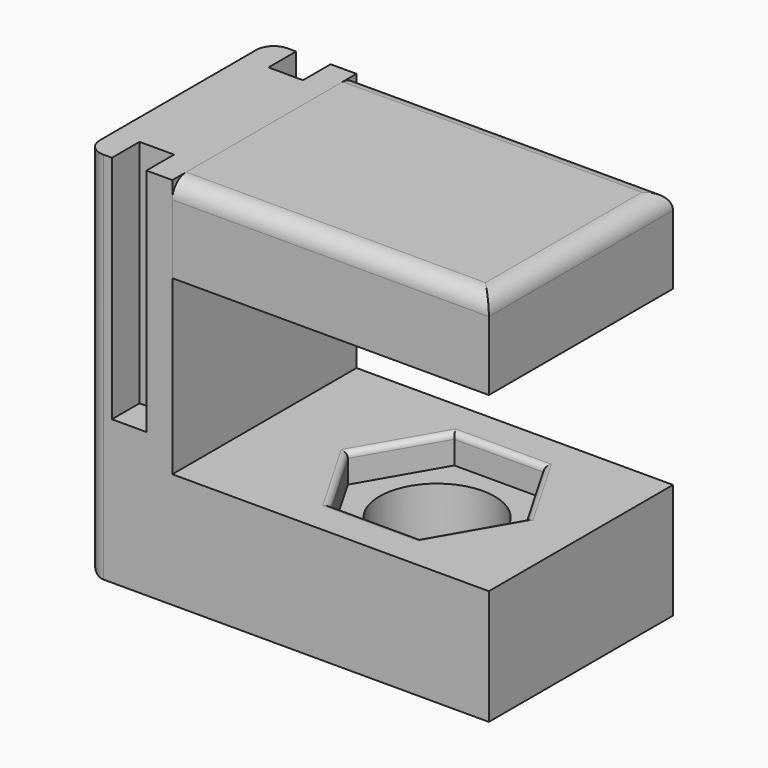
from build123d import *

# Parameters (mm, degrees)
PAD_DEPTH       = 40
POCKET_DEPTH    = 5
FILLET001_R     = 1
SKETCH005_R     = 10
POCKET001_DEPTH = 20
FILLET002_R     = 3
SKETCH006_W     = 6
SKETCH006_H     = 10
POCKET002_DEPTH = 45
SKETCH003_W     = 40
SKETCH003_H     = 15
PAD002_DEPTH    = 55
FILLET_R        = 3


with BuildPart() as body:
    # Sketch → Pad (new body)
    with BuildSketch(Plane.XZ):
        Polygon((0, 0), (70, 0), (70, 20), (15, 20), (15, 50), (15, 50), (15, 44.99994), (15, 65), (0, 65), align=None)
    extrude(amount=PAD_DEPTH)

    # Sketch004 → Pocket (cut)
    with BuildSketch(Plane.XY.offset(20)):
        Polygon((29.5, -20), (37.25, -33.423394), (52.75, -33.423394), (60.5, -20), (52.75, -6.576606), (37.25, -6.576606), align=None)
    extrude(amount=-POCKET_DEPTH, mode=Mode.SUBTRACT)

    # Fillet001
    fillet001_edges = [body.edges().sort_by_distance(p)[0] for p in [
        (33.375, -13.288303, 20),
        (45, -6.576606, 20),
        (56.625, -13.288303, 20),
        (56.625, -26.711697, 20),
        (45, -33.423394, 20),
        (33.375, -26.711697, 20),
    ]]
    fillet(fillet001_edges, radius=FILLET001_R)

    # Sketch005 → Pocket001 (cut)
    with BuildSketch(Plane.XY):
        with Locations((45, -20)):
            Circle(SKETCH005_R)
    extrude(amount=POCKET001_DEPTH, mode=Mode.SUBTRACT)

    # Fillet002
    fillet002_edges = [body.edges().sort_by_distance(p)[0] for p in [
        (0, -20, 0),
        (0, 0, 32.5),
        (0, -40, 32.5),
    ]]
    fillet(fillet002_edges, radius=FILLET002_R)

    # Sketch006 → Pocket002 (cut)
    with BuildSketch(Plane.XY.offset(70)):
        with Locations((7.5, -1)):
            Rectangle(SKETCH006_W, SKETCH006_H)
        with Locations((7.5, -39)):
            Rectangle(SKETCH006_W, SKETCH006_H)
    extrude(amount=-POCKET002_DEPTH, mode=Mode.SUBTRACT)


with BuildPart() as body001:
    # Sketch003 → Pad002 (new body)
    with BuildSketch(Plane.YZ.offset(15)):
        with Locations((-20, 57.5)):
            Rectangle(SKETCH003_W, SKETCH003_H)
    extrude(amount=PAD002_DEPTH)

    # Fillet
    fillet_edges = [body001.edges().sort_by_distance(p)[0] for p in [
        (70, -20, 65),
        (42.5, 0, 65),
        (42.5, -40, 65),
    ]]
    fillet(fillet_edges, radius=FILLET_R)


solid = Compound([body.part, body001.part])
